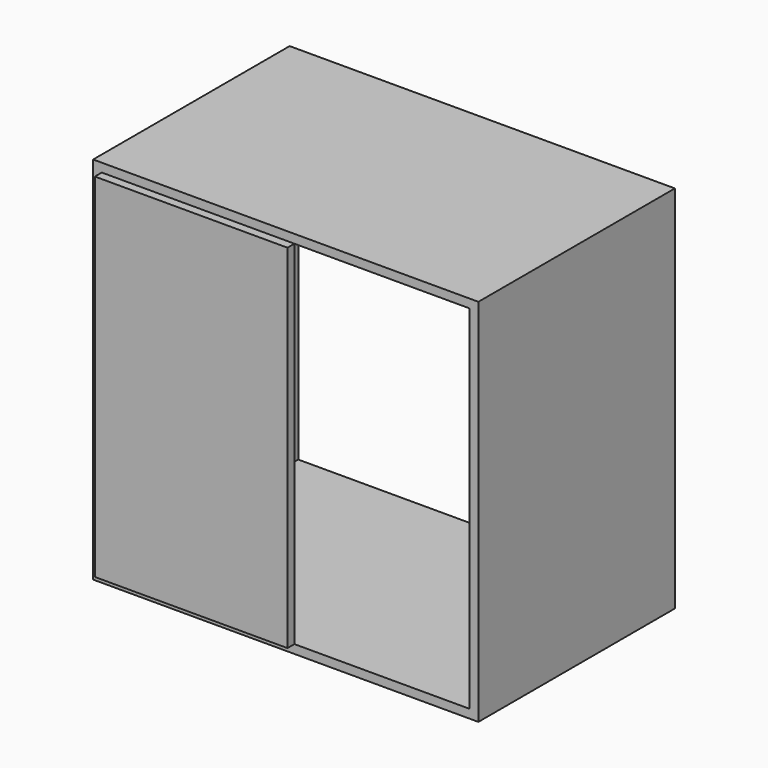
from build123d import *

# Parameters (mm, degrees)
F0_W     = 800
F0_H     = 510
F1_DEPTH = 18
F2_W     = 18
F2_H     = 510
F3_DEPTH = 750
F4_W     = 18
F4_H     = 510
F5_DEPTH = 750
F6_W     = 510
F6_H     = 18
F7_DEPTH = 764
F8_W     = 400
F8_H     = 732
F9_DEPTH = 17.9999992251


with BuildPart() as f1:
    # F0 (on Top) → F1 (new body)
    with BuildSketch(Plane.XY):
        Rectangle(F0_W, F0_H)
    extrude(amount=F1_DEPTH)

    # F2 (on face) → F3 (join)
    with BuildSketch(Plane.XY.offset(18)):
        with Locations((-391, 0)):
            Rectangle(F2_W, F2_H)
    extrude(amount=F3_DEPTH)

    # F4 (on face) → F5 (join)
    with BuildSketch(Plane.XY.offset(18)):
        with Locations((391, 0)):
            Rectangle(F4_W, F4_H)
    extrude(amount=F5_DEPTH)

    # F6 (on face) → F7 (join)
    with BuildSketch(Plane(origin=(382, 0, 0), x_dir=(0, -1, 0), z_dir=(-1, 0, 0))):
        with Locations((0, 759)):
            Rectangle(F6_W, F6_H)
    extrude(amount=F7_DEPTH)

    # F8 (on face) → F9 (join)
    with BuildSketch(Plane.XZ.offset(255)):
        with Locations((-182, 384)):
            Rectangle(F8_W, F8_H)
    extrude(amount=F9_DEPTH)


solid = f1.part
